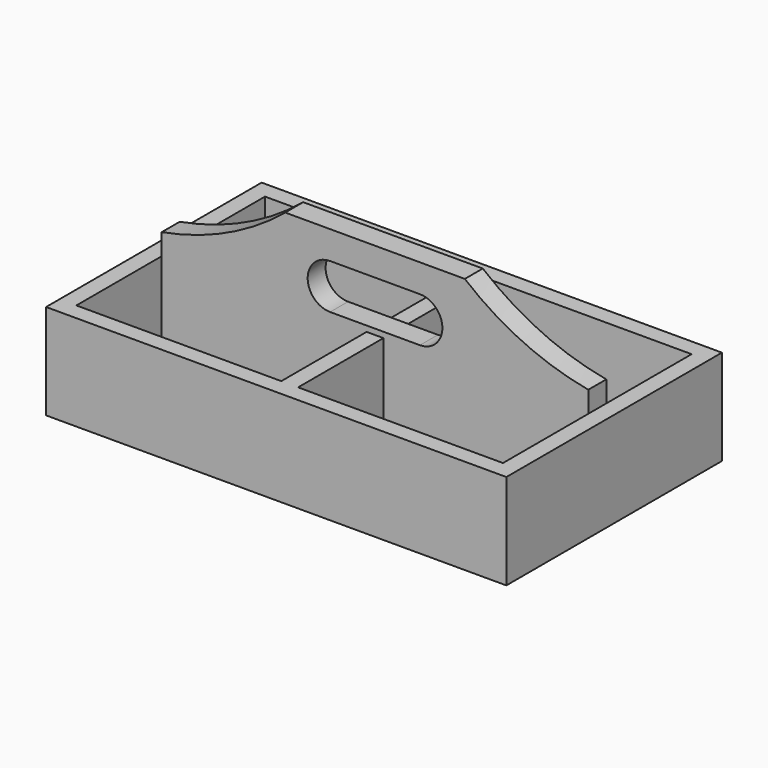
from build123d import *

# Parameters (mm, degrees)
F0_W      = 260.35
F0_H      = 9.525
F1_DEPTH  = 152.4
F3_DEPTH  = 44.45
F4_W      = 9.525
F4_H      = 133.35
F5_DEPTH  = 44.45
F7_DEPTH  = 44.45
F9_DEPTH  = 88.9
F11_DEPTH = 25.4
F12_DEPTH = 25.4
F14_DEPTH = 12.7
F15_W     = 9.525
F15_H     = 60.325
F16_DEPTH = 44.45


with BuildPart() as f1:
    # F0 (on Front) → F1 (new body)
    with BuildSketch(Plane.XZ):
        with Locations((-130.175, 4.7625)):
            Rectangle(F0_W, F0_H)
        with Locations((-130.175, 4.7625)):
            Rectangle(F0_W, F0_H)
    extrude(amount=F1_DEPTH)

    # F2 (on face) → F3 (join)
    with BuildSketch(Plane.XY.offset(9.525)):
        Polygon((-260.35, 0), (-260.35, -9.525), (-248.4708428383, -9.525), (0, -9.525), (0, 0), align=None)
        Polygon((-260.35, -152.4), (-250.825, -152.4), (0, -152.4), (0, -142.875), (-260.35, -142.875), align=None)
    extrude(amount=F3_DEPTH)

    # F4 (on face) → F5 (join)
    with BuildSketch(Plane.XY.offset(9.525)):
        with Locations((-255.5875, -76.2)):
            Rectangle(F4_W, F4_H)
        with Locations((-4.7625, -76.2)):
            Rectangle(F4_W, F4_H)
    extrude(amount=F5_DEPTH)

    # F6 (on face) → F7 (join)
    with BuildSketch(Plane.XY.offset(9.525)):
        Polygon((-134.9375, -82.55), (-134.9375, -142.875), (-130.175, -142.875), (-125.4125, -142.875), (-125.4125, -82.55), align=None)
    extrude(amount=F7_DEPTH)

    # F8 (on face) → F9 (join)
    with BuildSketch(Plane.XY.offset(9.525)):
        Polygon((-250.825, -69.85), (-250.825, -82.55), (-134.9375, -82.55), (-125.4125, -82.55), (-9.525, -82.55), (-9.525, -69.85), align=None)
    extrude(amount=F9_DEPTH)

    # F10 (on face) → F11 (join)
    with BuildSketch(Plane.XZ.offset(82.55)):
        with BuildLine():
            Line((-180.975, 98.425), (-250.825, 98.425))
            Line((-250.825, 98.425), (-250.825, 65.953187989))
            ThreePointArc((-250.825, 65.953187989), (-213.8145902973, 77.7031765567), (-180.975, 98.425))
        make_face()
        with BuildLine():
            Line((-250.825, 65.953187989), (-250.825, 98.425))
            Line((-250.825, 98.425), (-180.975, 98.425))
            ThreePointArc((-180.975, 98.425), (-149.1074694289, 134.677129134), (-130.175, 179.0766558518))
            ThreePointArc((-130.175, 179.0766558518), (-134.6905811935, 215.9), (-130.175, 252.7233441482))
            ThreePointArc((-130.175, 252.7233441482), (-406.0727955672, 298.5942281561), (-250.825, 65.953187989))
        make_face()
        with BuildLine():
            ThreePointArc((-125.6594188065, 215.9), (-126.7925264835, 234.44958994), (-130.175, 252.7233441482))
            ThreePointArc((-130.175, 252.7233441482), (-134.6905811935, 215.9), (-130.175, 179.0766558518))
            ThreePointArc((-130.175, 179.0766558518), (-126.7925264835, 197.35041006), (-125.6594188065, 215.9))
        make_face()
        with BuildLine():
            ThreePointArc((170.1094188065, 215.9), (36.2590087465, 367.166892323), (-130.175, 252.7233441482))
            ThreePointArc((-130.175, 252.7233441482), (-126.7925264835, 234.44958994), (-125.6594188065, 215.9))
            ThreePointArc((-125.6594188065, 215.9), (-126.7925264835, 197.35041006), (-130.175, 179.0766558518))
            ThreePointArc((-130.175, 179.0766558518), (-111.2425305711, 134.677129134), (-79.375, 98.425))
            ThreePointArc((-79.375, 98.425), (82.632814335, 78.0206588605), (170.1094188065, 215.9))
        make_face()
    extrude(amount=-F11_DEPTH)

    # F10 (on face) → F12 (cut)
    with BuildSketch(Plane.XZ.offset(82.55)):
        with BuildLine():
            Line((-180.975, 98.425), (-250.825, 98.425))
            Line((-250.825, 98.425), (-250.825, 65.953187989))
            ThreePointArc((-250.825, 65.953187989), (-213.8145902973, 77.7031765567), (-180.975, 98.425))
        make_face()
        with BuildLine():
            Line((-250.825, 65.953187989), (-250.825, 98.425))
            Line((-250.825, 98.425), (-180.975, 98.425))
            ThreePointArc((-180.975, 98.425), (-149.1074694289, 134.677129134), (-130.175, 179.0766558518))
            ThreePointArc((-130.175, 179.0766558518), (-134.6905811935, 215.9), (-130.175, 252.7233441482))
            ThreePointArc((-130.175, 252.7233441482), (-406.0727955672, 298.5942281561), (-250.825, 65.953187989))
        make_face()
        with BuildLine():
            ThreePointArc((-125.6594188065, 215.9), (-126.7925264835, 234.44958994), (-130.175, 252.7233441482))
            ThreePointArc((-130.175, 252.7233441482), (-134.6905811935, 215.9), (-130.175, 179.0766558518))
            ThreePointArc((-130.175, 179.0766558518), (-126.7925264835, 197.35041006), (-125.6594188065, 215.9))
        make_face()
        with BuildLine():
            ThreePointArc((170.1094188065, 215.9), (36.2590087465, 367.166892323), (-130.175, 252.7233441482))
            ThreePointArc((-130.175, 252.7233441482), (-126.7925264835, 234.44958994), (-125.6594188065, 215.9))
            ThreePointArc((-125.6594188065, 215.9), (-126.7925264835, 197.35041006), (-130.175, 179.0766558518))
            ThreePointArc((-130.175, 179.0766558518), (-111.2425305711, 134.677129134), (-79.375, 98.425))
            ThreePointArc((-79.375, 98.425), (82.632814335, 78.0206588605), (170.1094188065, 215.9))
        make_face()
    extrude(amount=-F12_DEPTH, mode=Mode.SUBTRACT)

    # F13 (on face) → F14 (cut)
    with BuildSketch(Plane.XZ.offset(82.55)):
        with BuildLine():
            Line((-104.775, 82.55), (-155.575, 82.55))
            ThreePointArc((-155.575, 82.55), (-168.275, 69.85), (-155.575, 57.15))
            Line((-155.575, 57.15), (-104.775, 57.15))
            ThreePointArc((-104.775, 57.15), (-92.075, 69.85), (-104.775, 82.55))
        make_face()
    extrude(amount=-F14_DEPTH, mode=Mode.SUBTRACT)

    # F15 (on face) → F16 (join)
    with BuildSketch(Plane.XY.offset(9.525)):
        with Locations((-130.175, -39.6875)):
            Rectangle(F15_W, F15_H)
    extrude(amount=F16_DEPTH)


solid = f1.part
